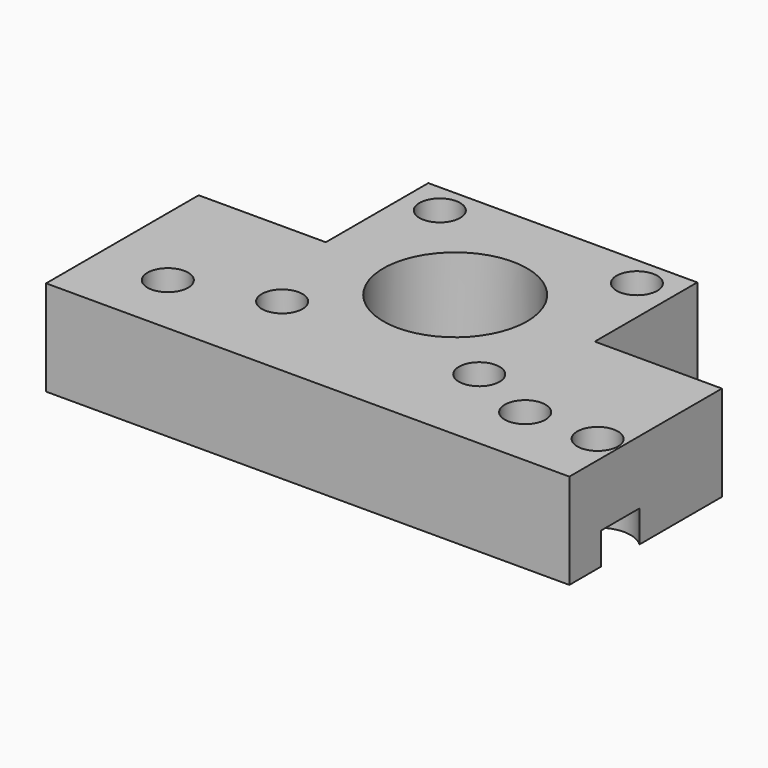
from build123d import *

# Parameters (mm, degrees)
SKETCH_R        = 11.3
SKETCH_R_2      = 1.6
SKETCH_R_3      = 3.2
PAD_DEPTH       = 15
SKETCH001_R     = 3.2
POCKET_DEPTH    = 4
SKETCH002_R     = 5.2
POCKET001_DEPTH = 5


with BuildPart() as part:
    # Sketch → Pad (new body)
    with BuildSketch(Plane.XY):
        Polygon((20, 30), (20, 50.15), (62.3, 50.15), (62.3, 30), (82.3, 30), (82.3, 0), (0, 0), (0, 30), align=None)
        with Locations((41.15, 29)):
            Circle(SKETCH_R, mode=Mode.SUBTRACT)
        with Locations((25.65, 44.5)):
            Circle(SKETCH_R_2, mode=Mode.SUBTRACT)
        with Locations((25.65, 13.5)):
            Circle(SKETCH_R_2, mode=Mode.SUBTRACT)
        with Locations((56.65, 44.5)):
            Circle(SKETCH_R_2, mode=Mode.SUBTRACT)
        with Locations((56.65, 13.5)):
            Circle(SKETCH_R_2, mode=Mode.SUBTRACT)
        with Locations((11.15, 10)):
            Circle(SKETCH_R_3, mode=Mode.SUBTRACT)
        with Locations((67.35, 10)):
            Circle(SKETCH_R_3, mode=Mode.SUBTRACT)
        with Locations((78.75, 10)):
            Circle(SKETCH_R_3, mode=Mode.SUBTRACT)
    extrude(amount=PAD_DEPTH)

    # Sketch001 (on Face18 of Pad) → Pocket (cut)
    with BuildSketch(Plane.XY.offset(15)):
        with Locations((25.65, 45.35)):
            Circle(SKETCH001_R)
        with Locations((56.65, 45.35)):
            Circle(SKETCH001_R)
        with Locations((56.65, 14.35)):
            Circle(SKETCH001_R)
        with Locations((25.65, 14.35)):
            Circle(SKETCH001_R)
    extrude(amount=-POCKET_DEPTH, mode=Mode.SUBTRACT)

    # Sketch002 (on Face4 of Pocket) → Pocket001 (cut)
    with BuildSketch(Plane(origin=(0, 0, 0), x_dir=(1, 0, 0), z_dir=(0, 0, -1))):
        with Locations((11.15, -10)):
            Circle(SKETCH002_R)
        with Locations((67.35, -10)):
            Circle(SKETCH002_R)
        with Locations((78.75, -10)):
            Circle(SKETCH002_R)
    extrude(amount=-POCKET001_DEPTH, mode=Mode.SUBTRACT)


solid = part.part
